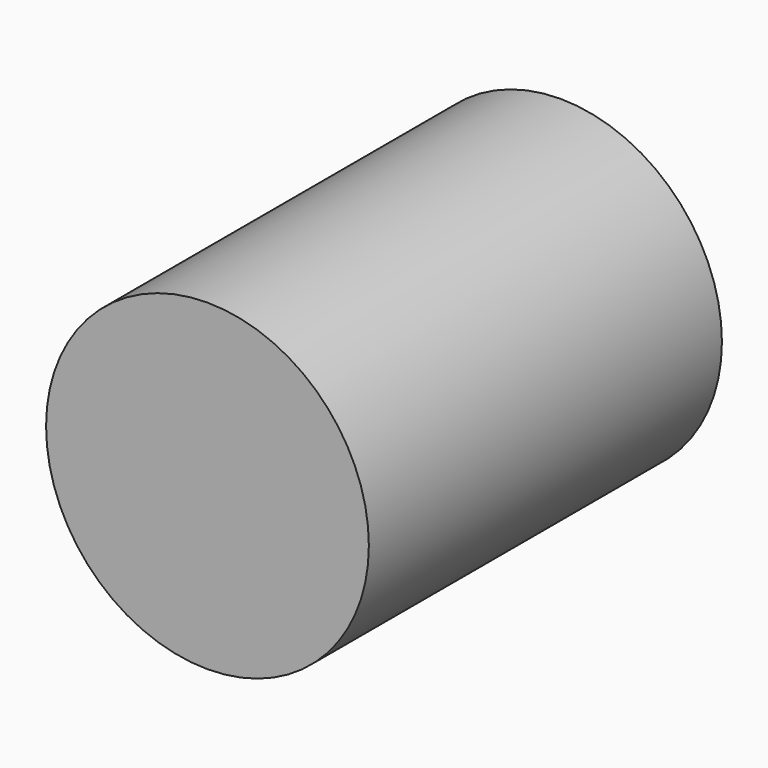
from build123d import *

# Parameters (mm, degrees)
F0_R     = 36.569501
F1_DEPTH = 100
F2_W     = 36.731586
F2_H     = 34.61919
F3_DEPTH = 100


with BuildPart() as f1:
    # F0 (on Front) → F1 (new body)
    with BuildSketch(Plane.XZ):
        with Locations((-68.751104, -33.26159)):
            Circle(F0_R)
    extrude(amount=F1_DEPTH)

    # F2 (on face) → F3 (join)
    with BuildSketch(Plane.XZ.offset(100)):
        with Locations((-68.751104, -33.26159)):
            Rectangle(F2_W, F2_H)
    extrude(amount=-F3_DEPTH)


solid = f1.part
